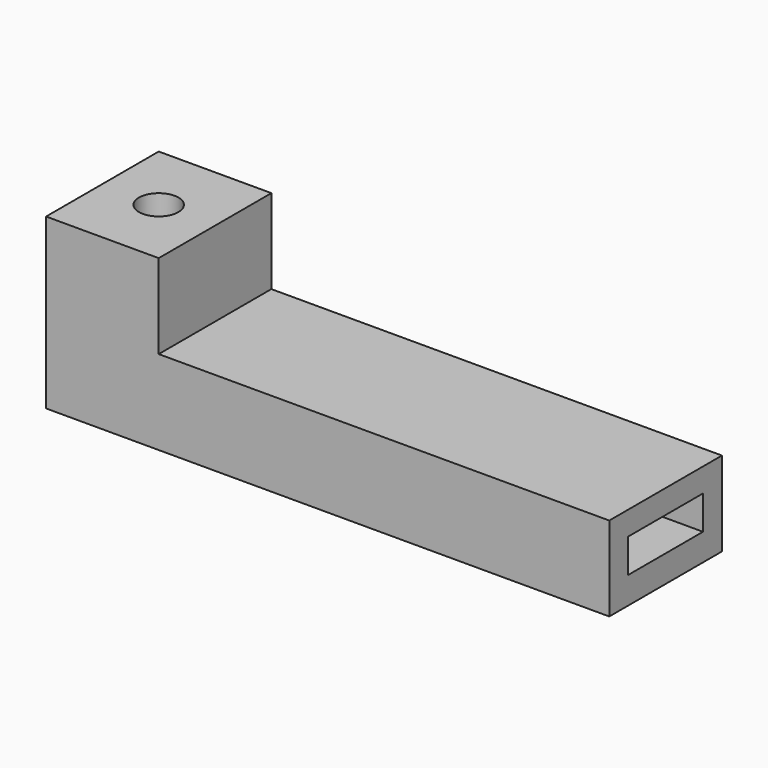
from build123d import *

# Parameters (mm, degrees)
F0_W     = 100
F0_H     = 25
F1_DEPTH = 15
F2_W     = 16.6
F2_H     = 6
F3_DEPTH = 73.5
F4_W     = 20
F4_H     = 25
F5_DEPTH = 15
F6_R     = 3.5
F7_DEPTH = 30.001
F8_R     = 3.5
F9_DEPTH = 6


with BuildPart() as f1:
    # F0 (on Top) → F1 (new body)
    with BuildSketch(Plane.XY):
        Rectangle(F0_W, F0_H)
    extrude(amount=F1_DEPTH)

    # F2 (on face) → F3 (cut)
    with BuildSketch(Plane.YZ.offset(50)):
        with Locations((0, 7.786861)):
            Rectangle(F2_W, F2_H)
    extrude(amount=-F3_DEPTH, mode=Mode.SUBTRACT)

    # F4 (on face) → F5 (join)
    with BuildSketch(Plane.XY.offset(15)):
        with Locations((-40, 0)):
            Rectangle(F4_W, F4_H)
    extrude(amount=F5_DEPTH)

    # F6 (on face) → F7 (cut, through all)
    with BuildSketch(Plane.XY.offset(30)):
        with Locations((-40, 0)):
            Circle(F6_R)
    extrude(amount=-F7_DEPTH, mode=Mode.SUBTRACT)

    # F8 (on face) → F9 (cut)
    with BuildSketch(Plane(origin=(0, 0, 0), x_dir=(1, 0, 0), z_dir=(0, 0, -1))):
        Polygon((-40.096797, 6.350115), (-45.54776, 3.091229), (-45.450962, -3.258887), (-39.903203, -6.350115), (-34.45224, -3.091229), (-34.549038, 3.258887), align=None)
        with Locations((-40, 0)):
            Circle(F8_R, mode=Mode.SUBTRACT)
    extrude(amount=-F9_DEPTH, mode=Mode.SUBTRACT)


solid = f1.part
